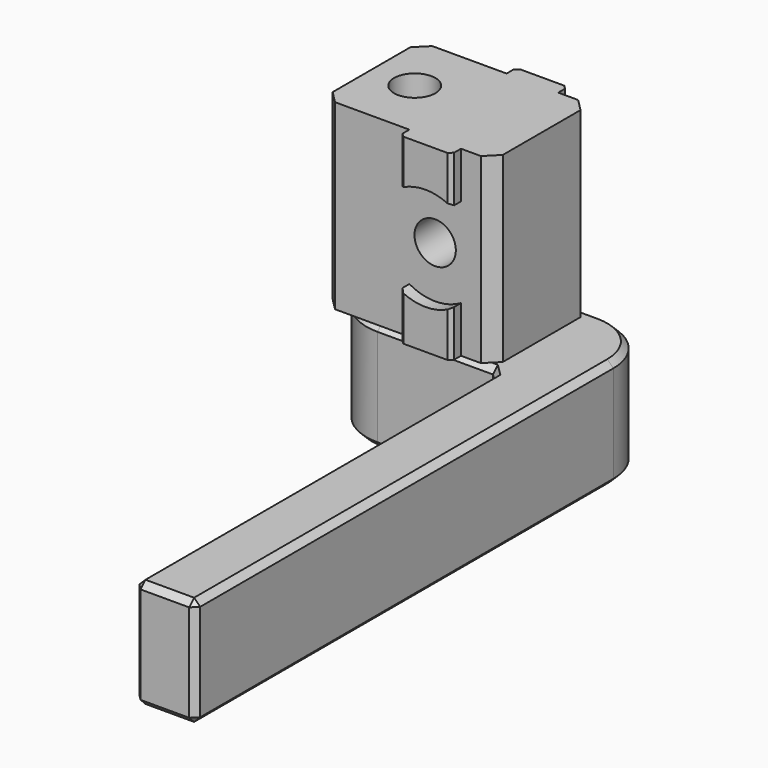
from build123d import *

# Parameters (mm, degrees)
SKETCH021_W     = 28
SKETCH021_H     = 20
PAD006_DEPTH    = 30
SKETCH022_W     = 8.5
SKETCH022_H     = 24
PAD007_DEPTH    = 30
CHAMFER006_SIZE = 2
CHAMFER007_SIZE = 0.6
SKETCH023_R     = 8.5
POCKET009_DEPTH = 2
SKETCH024_R     = 8.5
POCKET010_DEPTH = 2
SKETCH025_R     = 3.4
POCKET011_DEPTH = 20
SKETCH026_R     = 3.4
POCKET012_DEPTH = 30
SKETCH028_R     = 3.4
PAD008_DEPTH    = 18
FILLET002_R     = 9
CHAMFER008_SIZE = 1


with BuildPart() as carrier003:
    # Sketch021 → Pad006 (new body)
    with BuildSketch(Plane.XY):
        with Locations((-4.475, 22.38)):
            Rectangle(SKETCH021_W, SKETCH021_H)
    extrude(amount=PAD006_DEPTH)

    # Sketch022 (on Face6 of Pad006) → Pad007 (join)
    with BuildSketch(Plane.XY.offset(30)):
        with Locations((0, 22.38)):
            Rectangle(SKETCH022_W, SKETCH022_H)
    extrude(amount=-PAD007_DEPTH)

    # Chamfer006
    chamfer006_edges = [carrier003.edges().sort_by_distance(p)[0] for p in [
        (-18.475, 32.38, 15),
        (-18.475, 12.38, 15),
        (9.525, 32.38, 15),
        (9.525, 12.38, 15),
    ]]
    chamfer(chamfer006_edges, length=CHAMFER006_SIZE)

    # Chamfer007
    chamfer007_edges = [carrier003.edges().sort_by_distance(p)[0] for p in [
        (4.25, 34.38, 15),
        (-4.25, 34.38, 15),
        (-4.25, 10.38, 15),
        (4.25, 10.38, 15),
    ]]
    chamfer(chamfer007_edges, length=CHAMFER007_SIZE)

    # Sketch023 (on Face10 of Pad007) → Pocket009 (cut)
    with BuildSketch(Plane(origin=(0, 34.38, 0), x_dir=(-1, 0, 0), z_dir=(0, 1, 0))):
        with Locations((0, 15)):
            Circle(SKETCH023_R)
    extrude(amount=-POCKET009_DEPTH, mode=Mode.SUBTRACT)

    # Sketch024 (on Face10 of Pad007) → Pocket010 (cut)
    with BuildSketch(Plane(origin=(0, 10.38, 0), x_dir=(-1, 0, 0), z_dir=(0, 1, 0))):
        with Locations((0, 15)):
            Circle(SKETCH024_R)
    extrude(amount=POCKET010_DEPTH, mode=Mode.SUBTRACT)

    # Sketch025 (on Face3 of Pocket010) → Pocket011 (cut)
    with BuildSketch(Plane(origin=(0, 32.38, 0), x_dir=(-1, 0, 0), z_dir=(0, 1, 0))):
        with Locations((0, 15)):
            Circle(SKETCH025_R)
    extrude(amount=-POCKET011_DEPTH, mode=Mode.SUBTRACT)

    # Sketch026 (on Face13 of Pocket011) → Pocket012 (cut)
    with BuildSketch(Plane.XY.offset(30)):
        with Locations((-11.3625, 22.38)):
            Circle(SKETCH026_R)
    extrude(amount=-POCKET012_DEPTH, mode=Mode.SUBTRACT)


with BuildPart() as arm003:
    # Sketch028 → Pad008 (new body)
    with BuildSketch(Plane.XY):
        Polygon((-18.475, 12.38), (10.525, 12.38), (10.525, -62.62), (20.525, -62.62), (20.525, 32.38), (-18.475, 32.38), align=None)
        with Locations((-11.3625, 22.38)):
            Circle(SKETCH028_R, mode=Mode.SUBTRACT)
    extrude(amount=-PAD008_DEPTH)

    # Fillet002
    fillet002_edges = [arm003.edges().sort_by_distance(p)[0] for p in [
        (-18.475, 32.38, -9),
        (-18.475, 12.38, -9),
        (20.525, 32.38, -9),
    ]]
    fillet(fillet002_edges, radius=FILLET002_R)

    # Chamfer008
    chamfer008_edges = [arm003.edges().sort_by_distance(p)[0] for p in [
        (0.525, 12.38, -18),
        (-15.838961, 15.016039, -18),
        (10.525, -25.12, -18),
        (-18.475, 22.38, -18),
        (15.525, -62.62, -18),
        (-15.838961, 29.743961, -18),
        (20.525, -19.62, -18),
        (1.025, 32.38, -18),
        (17.888961, 29.743961, -18),
        (-14.7625, 22.38, -18),
        (0.525, 12.38, 0),
        (-15.838961, 15.016039, 0),
        (10.525, -25.12, 0),
        (-18.475, 22.38, 0),
        (15.525, -62.62, 0),
        (-15.838961, 29.743961, 0),
        (20.525, -19.62, 0),
        (1.025, 32.38, 0),
        (17.888961, 29.743961, 0),
        (-14.7625, 22.38, 0),
        (10.525, -62.62, -9),
        (20.525, -62.62, -9),
        (10.525, 12.38, -9),
    ]]
    chamfer(chamfer008_edges, length=CHAMFER008_SIZE)


solid = Compound([carrier003.part, arm003.part])
